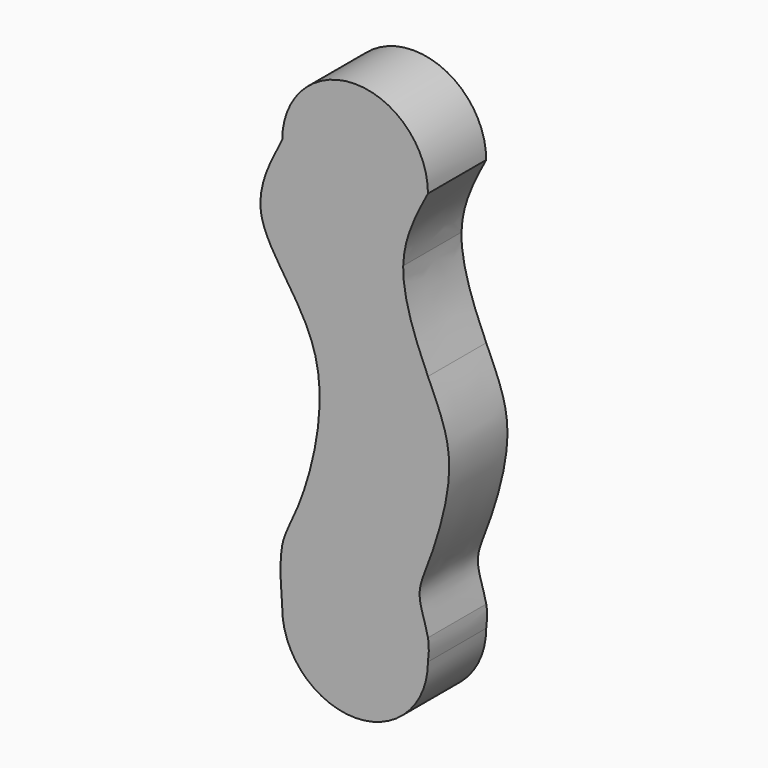
from build123d import *

# Parameters (mm, degrees)
F1_DEPTH = 12.7


with BuildPart() as f1:
    # F0 (on Front) → F1 (new body)
    with BuildSketch(Plane.XZ):
        with BuildLine():
            Line((-12.7, 50.7999924695), (12.7, 50.7999924695))
            ThreePointArc((12.7, 50.7999924695), (0, 63.4999924695), (-12.7, 50.7999924695))
        make_face()
        with BuildLine():
            add(Edge.make_bspline(
                [(8.3893518895, 38.3055396378), (8.5016980453, 42.8607866704), (10.6008490226, 46.8303895699), (12.7, 50.7999924695)],
                knots=[0.8356188955, 0.8356188955, 0.8356188955, 0.8356188955, 1, 1, 1, 1], degree=3))
            Line((12.7, 50.7999924695), (-12.7, 50.7999924695))
            add(Edge.make_bspline(
                [(-12.7, 50.7999924695), (-14.9799885812, 46.4248424892), (-17.2599771624, 42.0496925089), (-16.2537936121, 37.6669317484)],
                knots=[0, 0, 0, 0, 0.1945957474, 0.1945957474, 0.1945957474, 0.1945957474], degree=3))
            Line((-16.2537936121, 37.6669317484), (8.3893518895, 38.3055396378))
        make_face()
        with BuildLine():
            add(Edge.make_bspline(
                [(12.7, 22.7240230888), (10.5710456649, 27.5132709031), (8.2651004819, 33.2675759272), (8.3893518895, 38.3055396378)],
                knots=[0.6538184283, 0.6538184283, 0.6538184283, 0.6538184283, 0.8356188955, 0.8356188955, 0.8356188955, 0.8356188955], degree=3))
            Line((8.3893518895, 38.3055396378), (-16.2537936121, 37.6669317484))
            add(Edge.make_bspline(
                [(-16.2537936121, 37.6669317484), (-15.0208566806, 32.2964726486), (-8.8537100143, 26.9145859108), (-6.9146538153, 19.4980632514)],
                knots=[0.1945957474, 0.1945957474, 0.1945957474, 0.1945957474, 0.4330455646, 0.4330455646, 0.4330455646, 0.4330455646], degree=3))
            Line((-6.9146538153, 19.4980632514), (12.7, 22.7240230888))
        make_face()
        with BuildLine():
            add(Edge.make_bspline(
                [(16.4083112031, 10.1680448279), (16.3883538394, 14.8858723271), (14.6158419839, 18.414188029), (12.7, 22.7240230888)],
                knots=[0.4902165313, 0.4902165313, 0.4902165313, 0.4902165313, 0.6538184283, 0.6538184283, 0.6538184283, 0.6538184283], degree=3))
            Line((12.7, 22.7240230888), (-6.9146538153, 19.4980632514))
            add(Edge.make_bspline(
                [(-6.9146538153, 19.4980632514), (-4.7996158768, 11.4084437731), (-7.7149464627, 0.898117222), (-9.9710989743, -4.6138959005)],
                knots=[0.4330455646, 0.4330455646, 0.4330455646, 0.4330455646, 0.6931362263, 0.6931362263, 0.6931362263, 0.6931362263], degree=3))
            Line((-9.9710989743, -4.6138959005), (16.4083112031, 10.1680448279))
        make_face()
        with BuildLine():
            add(Edge.make_bspline(
                [(12.7, -17.3643436283), (12.36662001, -15.5902142731), (10.4497065439, -11.2773407147), (12.9323010606, -5.9917759341), (16.4307877717, 4.8546890646), (16.4083112031, 10.1680448279)],
                knots=[0.0872122808, 0.0872122808, 0.0872122808, 0.0872122808, 0.1972730717, 0.3059632744, 0.4902165313, 0.4902165313, 0.4902165313, 0.4902165313], degree=3))
            Line((16.4083112031, 10.1680448279), (-9.9710989743, -4.6138959005))
            add(Edge.make_bspline(
                [(-9.9710989743, -4.6138959005), (-11.2092431706, -7.6388097847), (-12.2488655239, -9.158402979), (-12.7, -11.4059969783)],
                knots=[0.6931362263, 0.6931362263, 0.6931362263, 0.6931362263, 0.8358702576, 0.8358702576, 0.8358702576, 0.8358702576], degree=3))
            Line((-12.7, -11.4059969783), (12.7, -17.3643436283))
        make_face()
        with BuildLine():
            add(Edge.make_bspline(
                [(12.7, -21.0847407579), (12.8320853189, -19.9274531315), (12.9641706378, -18.7701655051), (12.7, -17.3643436283)],
                knots=[0, 0, 0, 0, 0.0872122808, 0.0872122808, 0.0872122808, 0.0872122808], degree=3))
            Line((12.7, -17.3643436283), (-12.7, -11.4059969783))
            add(Edge.make_bspline(
                [(-12.7, -11.4059969783), (-13.2187591539, -13.9905034242), (-12.959379577, -17.5376220911), (-12.7, -21.0847407579)],
                knots=[0.8358702576, 0.8358702576, 0.8358702576, 0.8358702576, 1, 1, 1, 1], degree=3))
            Line((-12.7, -21.0847407579), (12.7, -21.0847407579))
        make_face()
        with BuildLine():
            ThreePointArc((-12.7, -21.0847407579), (0, -33.7847407579), (12.7, -21.0847407579))
            Line((12.7, -21.0847407579), (-12.7, -21.0847407579))
        make_face()
    extrude(amount=F1_DEPTH)


solid = f1.part
